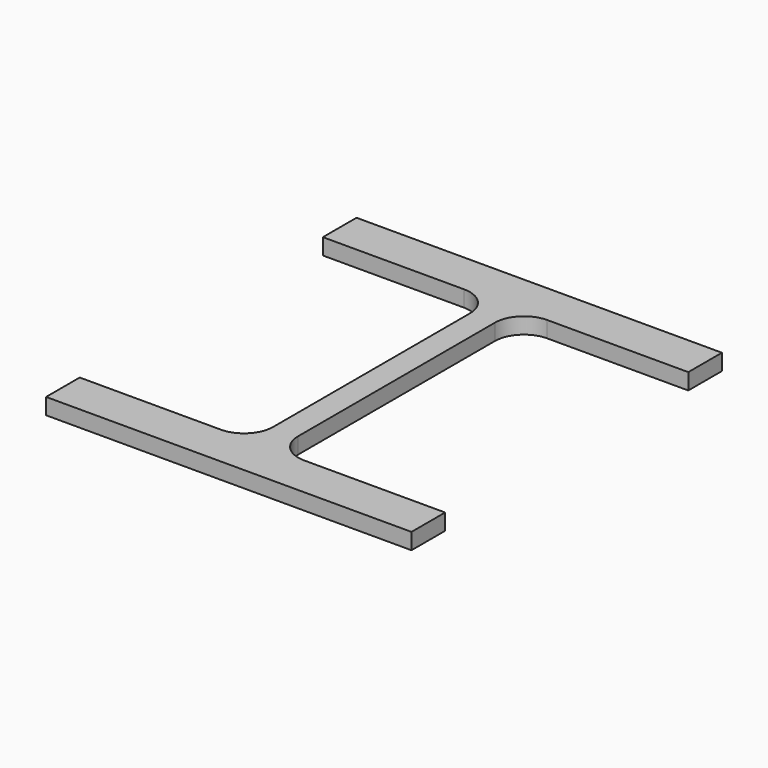
from build123d import *

# Parameters (mm, degrees)
F1_DEPTH = 25.4


with BuildPart() as f1:
    # F0 (on Top) → F1 (new body)
    with BuildSketch(Plane.XY):
        with BuildLine():
            Line((-308.69023, -16.839156), (-308.69023, -82.879156))
            Line((-308.69023, -82.879156), (265.34977, -82.879156))
            Line((265.34977, -82.879156), (265.34977, -16.839156))
            Line((265.34977, -16.839156), (43.73477, -16.839156))
            ThreePointArc((43.73477, -16.839156), (11.405848, -3.448078), (-1.98523, 28.880844))
            Line((-1.98523, 28.880844), (-1.98523, 414.960844))
            ThreePointArc((-1.98523, 414.960844), (11.405848, 447.289766), (43.73477, 460.680844))
            Line((43.73477, 460.680844), (265.34977, 460.680844))
            Line((265.34977, 460.680844), (265.34977, 526.720844))
            Line((265.34977, 526.720844), (-308.69023, 526.720844))
            Line((-308.69023, 526.720844), (-308.69023, 460.680844))
            Line((-308.69023, 460.680844), (-87.07523, 460.680844))
            ThreePointArc((-87.07523, 460.680844), (-54.746308, 447.289766), (-41.35523, 414.960844))
            Line((-41.35523, 414.960844), (-41.35523, 301.353365))
            Line((-41.35523, 301.353365), (-41.35523, 28.880844))
            ThreePointArc((-41.35523, 28.880844), (-54.746308, -3.448078), (-87.07523, -16.839156))
            Line((-87.07523, -16.839156), (-308.69023, -16.839156))
        make_face()
    extrude(amount=F1_DEPTH)


solid = f1.part
